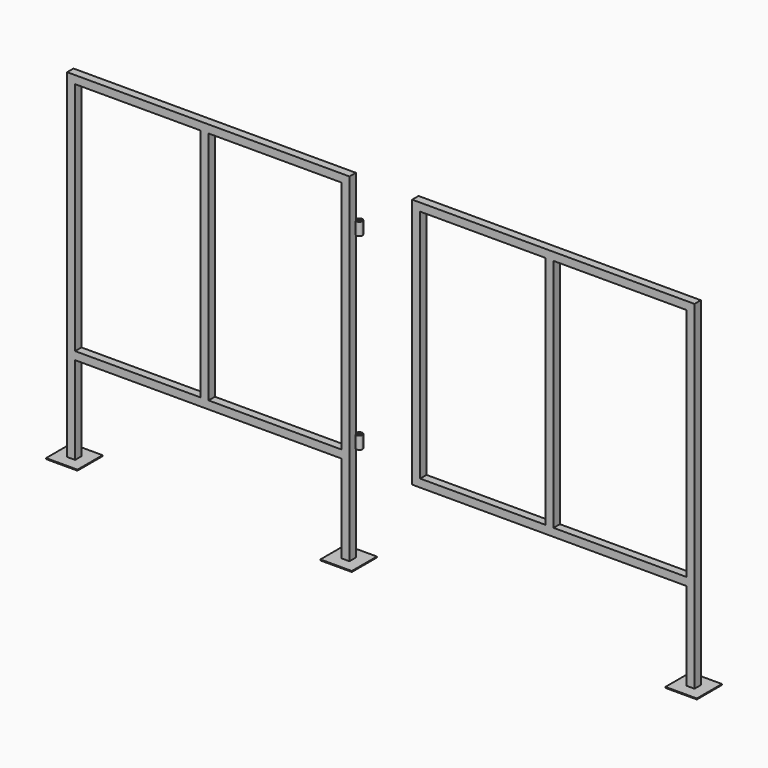
from build123d import *

# Parameters (mm, degrees)
F0_W      = 400
F0_H      = 749.2
F0_W_2    = 423.8
F1_DEPTH  = 25.4
F2_W      = 100
F2_H      = 100
F3_DEPTH  = 3
F4_W      = 100
F4_H      = 100
F5_DEPTH  = 3
F6_R      = 10
F7_DEPTH  = 40
F8_R      = 5
F9_DEPTH  = 25
F11_R     = 10
F12_DEPTH = 40
F13_R     = 5
F14_DEPTH = 25
F17_R     = 10
F18_DEPTH = 25
F19_R     = 5
F20_DEPTH = 25
F21_R     = 10
F22_DEPTH = 25
F23_R     = 5
F24_DEPTH = 25


with BuildPart() as f1:
    # F0 (on Front) → F1 (new body)
    with BuildSketch(Plane.XZ):
        Polygon((486.4812463522, 774.6), (-413.5187536478, 774.6), (-413.5187536478, -305.4), (-388.1187536478, -305.4), (-388.1187536478, -25.4), (461.0812463522, -25.4), (461.0812463522, -305.4), (486.4812463522, -305.4), align=None)
        with Locations((-188.1187536478, 374.6)):
            Rectangle(F0_W, F0_H, mode=Mode.SUBTRACT)
        with Locations((249.1812463522, 374.6)):
            Rectangle(F0_W_2, F0_H, mode=Mode.SUBTRACT)
    extrude(amount=-F1_DEPTH)

    # F2 (on face) → F3 (join)
    with BuildSketch(Plane(origin=(0, 0, -305.4), x_dir=(1, 0, 0), z_dir=(0, 0, -1))):
        with Locations((-400.8187536478, -12.7)):
            Rectangle(F2_W, F2_H)
        with Locations((473.7812463522, -12.7)):
            Rectangle(F2_W, F2_H)
    extrude(amount=F3_DEPTH)

    # F6 (on face) → F7 (join)
    with BuildSketch(Plane.XY):
        with Locations((491.0812463522, 33.4)):
            Circle(F6_R)
    extrude(amount=F7_DEPTH)

    # F8 (on face) → F9 (cut)
    with BuildSketch(Plane.XY.offset(40)):
        with Locations((491.0812463522, 33.4)):
            Circle(F8_R)
    extrude(amount=-F9_DEPTH, mode=Mode.SUBTRACT)

    # F11 (on offset) → F12 (join)
    with BuildSketch(Plane.XY.offset(600)):
        with Locations((491.0812463522, 33.4)):
            Circle(F11_R)
    extrude(amount=F12_DEPTH)

    # F13 (on face) → F14 (cut)
    with BuildSketch(Plane.XY.offset(640)):
        with Locations((491.0812463522, 33.4)):
            Circle(F13_R)
    extrude(amount=-F14_DEPTH, mode=Mode.SUBTRACT)


with BuildPart() as f1b:
    # F0 (on Front) → F1, piece 2 (new body)
    with BuildSketch(Plane.XZ):
        Polygon((1586.4812463522, 774.6), (686.4812463522, 774.6), (686.4812463522, -25.4), (711.8812463522, -25.4), (1561.0812463522, -25.4), (1561.0812463522, -305.4), (1586.4812463522, -305.4), align=None)
        with Locations((911.8812463522, 374.6)):
            Rectangle(F0_W, F0_H, mode=Mode.SUBTRACT)
        with Locations((1349.1812463522, 374.6)):
            Rectangle(F0_W_2, F0_H, mode=Mode.SUBTRACT)
    extrude(amount=-F1_DEPTH)

    # F4 (on face) → F5 (join)
    with BuildSketch(Plane(origin=(0, 0, -305.4), x_dir=(1, 0, 0), z_dir=(0, 0, -1))):
        with Locations((1573.7812463522, -12.7)):
            Rectangle(F4_W, F4_H)
    extrude(amount=F5_DEPTH)

    # F17 (on offset) → F18 (join)
    with BuildSketch(Plane.XY.offset(40)):
        with Locations((681.8812463522, 33.4)):
            Circle(F17_R)
    extrude(amount=F18_DEPTH)

    # F19 (on face) → F20 (join)
    with BuildSketch(Plane(origin=(0, 0, 40), x_dir=(1, 0, 0), z_dir=(0, 0, -1))):
        with Locations((681.8812463522, -33.4)):
            Circle(F19_R)
    extrude(amount=F20_DEPTH)

    # F21 (on offset) → F22 (join)
    with BuildSketch(Plane.XY.offset(640)):
        with Locations((681.8812463522, 33.4)):
            Circle(F21_R)
    extrude(amount=F22_DEPTH)

    # F23 (on face) → F24 (join)
    with BuildSketch(Plane(origin=(0, 0, 640), x_dir=(1, 0, 0), z_dir=(0, 0, -1))):
        with Locations((681.8812463522, -33.4)):
            Circle(F23_R)
    extrude(amount=F24_DEPTH)


solid = Compound([f1.part, f1b.part])
